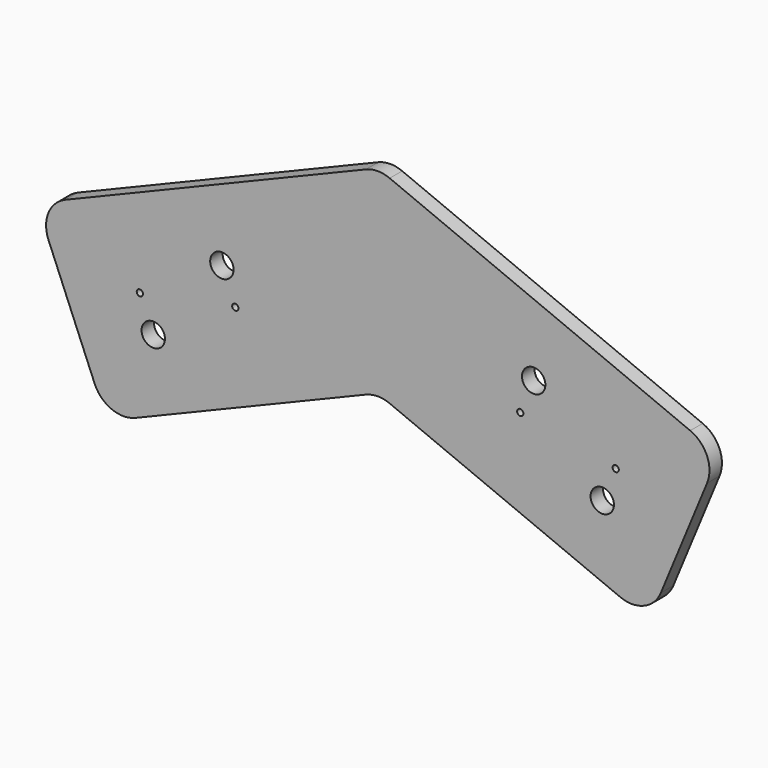
from build123d import *

# Parameters (mm, degrees)
F0_R     = 4.7625
F0_R_2   = 1.27
F1_DEPTH = 3.175
F2_R     = 12.7


with BuildPart() as f1:
    # F0 (on Front) → F1 (new body, symmetric)
    with BuildSketch(Plane.XZ):
        with BuildLine():
            ThreePointArc((-58.739439, 25.245564), (-67.461813, 27.891467), (-61.679409, 20.845588))
            ThreePointArc((-61.679409, 20.845588), (-59.542065, 22.599661), (-58.739439, 25.245564))
        make_face()
        Polygon((-45.276641, -18.754199), (0, 0), (0, 80.759988), (-139.00587, 23.181871), (-110.452903, -45.75109), align=None)
        with Locations((-91.447397, -8.667692)):
            Circle(F0_R, mode=Mode.SUBTRACT)
        with Locations((-96.914986, 4.532236)):
            Circle(F0_R_2, mode=Mode.SUBTRACT)
        with BuildLine():
            ThreePointArc((-56.764349, 12.045635), (-56.978383, 11.340061), (-57.548342, 10.872308))
            ThreePointArc((-57.548342, 10.872308), (-59.207676, 11.559627), (-58.520357, 13.218962))
            ThreePointArc((-58.520357, 13.218962), (-57.328775, 13.101602), (-56.764349, 12.045635))
        make_face(mode=Mode.SUBTRACT)
        with BuildLine():
            ThreePointArc((-58.739439, 25.245564), (-59.542065, 22.599661), (-61.679409, 20.845588))
            ThreePointArc((-61.679409, 20.845588), (-67.461813, 27.891467), (-58.739439, 25.245564))
        make_face(mode=Mode.SUBTRACT)
        Polygon((0, 80.759988), (0, 0), (110.452903, -45.75109), (139.00587, 23.181871), align=None)
        with Locations((58.034349, 12.045635)):
            Circle(F0_R_2, mode=Mode.SUBTRACT)
        with Locations((91.447397, -8.667692)):
            Circle(F0_R, mode=Mode.SUBTRACT)
        with Locations((96.914986, 4.532236)):
            Circle(F0_R_2, mode=Mode.SUBTRACT)
        with Locations((63.501939, 25.245564)):
            Circle(F0_R, mode=Mode.SUBTRACT)
    extrude(amount=F1_DEPTH, both=True)

    # F2
    f2_edges = [f1.edges().sort_by_distance(p)[0] for p in [
        (-139.00587, 0, 23.181871),
        (0, 0, 80.759988),
        (0, 0, 0),
        (110.452903, 0, -45.75109),
        (139.00587, 0, 23.181871),
        (-110.452903, 0, -45.75109),
    ]]
    fillet(f2_edges, radius=F2_R)


solid = f1.part
